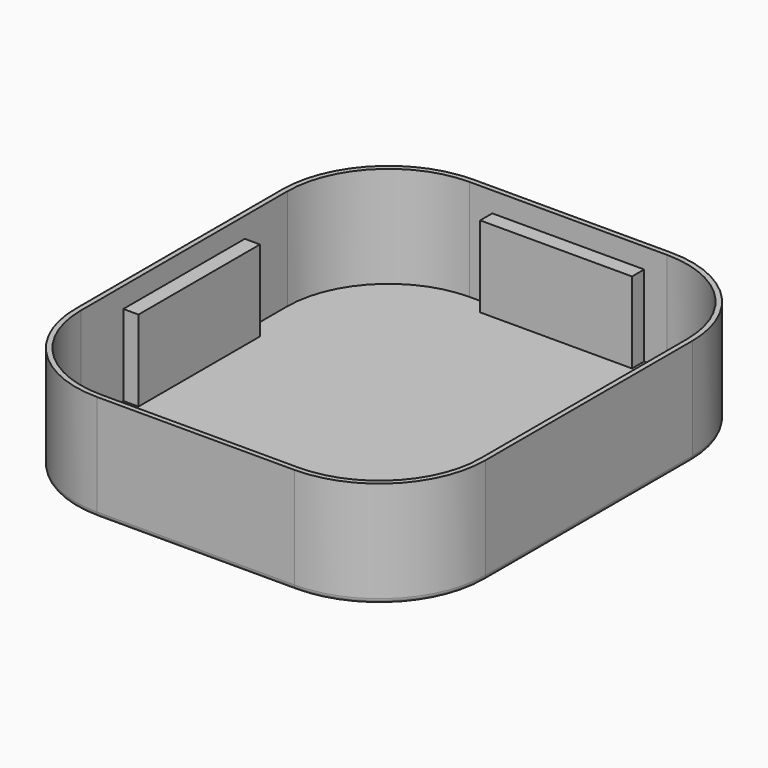
from build123d import *

# Parameters (mm, degrees)
PAD_DEPTH     = 20
THICKNESS_T   = 1
SKETCH001_W   = 3
SKETCH001_H   = 30
SKETCH001_W_2 = 30
SKETCH001_H_2 = 3
PAD001_DEPTH  = 16
PAD002_DEPTH  = 16


with BuildPart() as part:
    # Sketch → Pad (new body)
    with BuildSketch(Plane.XY):
        with BuildLine():
            Line((-19.5, 45.5), (19.5, 45.5))
            ThreePointArc((39.5, 25.5), (33.642136, 39.642136), (19.5, 45.5))
            Line((39.5, 25.5), (39.5, -25.5))
            ThreePointArc((19.5, -45.5), (33.642136, -39.642136), (39.5, -25.5))
            Line((19.5, -45.5), (-19.5, -45.5))
            ThreePointArc((-39.5, -25.5), (-33.642136, -39.642136), (-19.5, -45.5))
            Line((-39.5, -25.5), (-39.5, 25.5))
            ThreePointArc((-19.5, 45.5), (-33.642136, 39.642136), (-39.5, 25.5))
        make_face()
    extrude(amount=PAD_DEPTH)

    # Thickness
    thickness_openings = [part.faces().sort_by_distance(p)[0] for p in [
        (0, 0, 20),
    ]]
    offset(amount=THICKNESS_T, openings=thickness_openings)

    # Sketch001 (on Face9 of Thickness) → Pad001 (join)
    with BuildSketch(Plane.XY):
        with Locations((-38, 0)):
            Rectangle(SKETCH001_W, SKETCH001_H)
        with Locations((38, 0)):
            Rectangle(SKETCH001_W, SKETCH001_H)
        with Locations((0, -44)):
            Rectangle(SKETCH001_W_2, SKETCH001_H_2)
        with Locations((0, 44)):
            Rectangle(SKETCH001_W_2, SKETCH001_H_2)
    extrude(amount=PAD001_DEPTH)

    # Sketch001 (on Face9 of Thickness) → Pad002 (join)
    with BuildSketch(Plane.XY):
        with Locations((-38, 0)):
            Rectangle(SKETCH001_W, SKETCH001_H)
        with Locations((38, 0)):
            Rectangle(SKETCH001_W, SKETCH001_H)
        with Locations((0, -44)):
            Rectangle(SKETCH001_W_2, SKETCH001_H_2)
        with Locations((0, 44)):
            Rectangle(SKETCH001_W_2, SKETCH001_H_2)
    extrude(amount=PAD002_DEPTH)


solid = part.part
